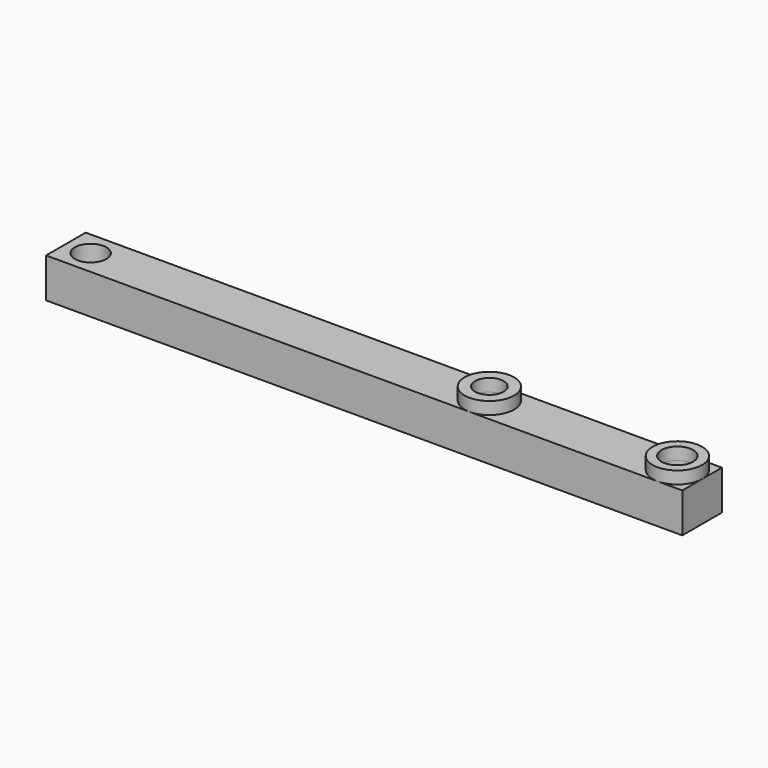
from build123d import *

# Parameters (mm, degrees)
PAD_DEPTH       = 2.5
SKETCH002_R     = 1.6
SKETCH002_R_2   = 1.45
POCKET001_DEPTH = 4.001
SKETCH003_R     = 2.5
SKETCH003_R_2   = 1.45
SKETCH003_R_3   = 1.6
PAD001_DEPTH    = 1.25


with BuildPart() as part:
    # Sketch → Pad (new body, symmetric)
    with BuildSketch(Plane.XZ):
        Polygon((-27.15, 0), (27.15, 0), (32.15, 0), (32.15, -4), (-32.15, -4), (-32.15, 0), align=None)
    extrude(amount=PAD_DEPTH, both=True)

    # Sketch002 → Pocket001 (cut, through all)
    with BuildSketch(Plane.XY):
        with Locations((29.65, 0)):
            Circle(SKETCH002_R)
        with Locations((10.65, 0)):
            Circle(SKETCH002_R_2)
        with Locations((-29.65, 0)):
            Circle(SKETCH002_R)
    extrude(amount=-POCKET001_DEPTH, mode=Mode.SUBTRACT)

    # Sketch003 → Pad001 (join)
    with BuildSketch(Plane.XY):
        with Locations((10.65, 0)):
            Circle(SKETCH003_R)
        with Locations((10.65, 0)):
            Circle(SKETCH003_R_2, mode=Mode.SUBTRACT)
        with Locations((29.65, 0)):
            Circle(SKETCH003_R)
        with Locations((29.65, 0)):
            Circle(SKETCH003_R_3, mode=Mode.SUBTRACT)
    extrude(amount=PAD001_DEPTH)


solid = part.part
